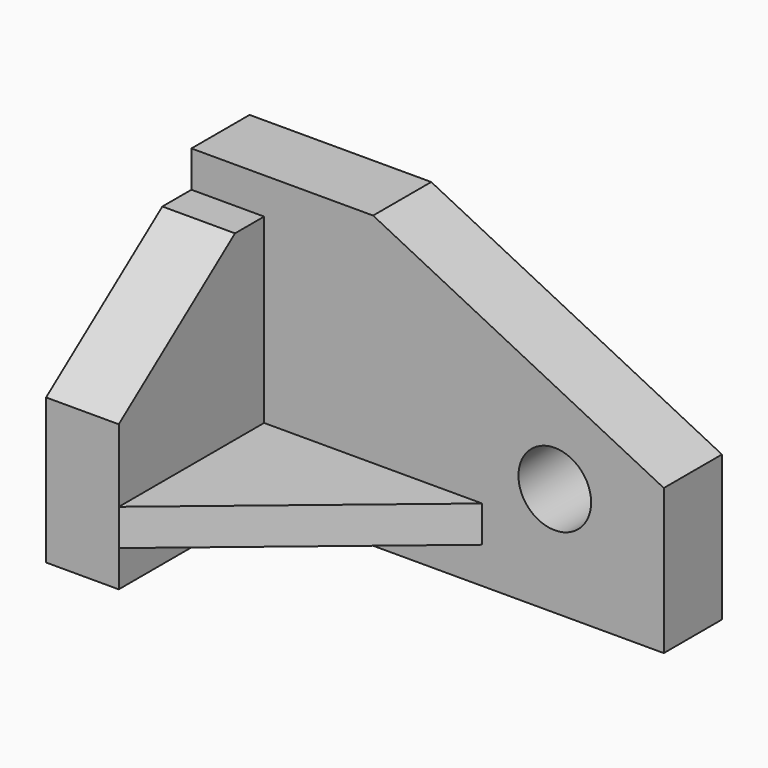
from build123d import *

# Parameters (mm, degrees)
F0_W      = 65
F0_H      = 35
F1_DEPTH  = 40
F2_W      = 10
F2_H      = 5
F3_DEPTH  = 5
F5_DEPTH  = 65
F6_DEPTH  = 65
F7_W      = 25
F7_H      = 5
F8_DEPTH  = 55
F10_DEPTH = 25
F12_DEPTH = 25
F13_R     = 5
F14_DEPTH = 25


with BuildPart() as f1:
    # F0 (on Top) → F1 (new body)
    with BuildSketch(Plane.XY):
        with Locations((-25.0700588524, -0.9162277728)):
            Rectangle(F0_W, F0_H)
    extrude(amount=F1_DEPTH)

    # F2 (on face) → F3 (cut)
    with BuildSketch(Plane.XY.offset(40)):
        with Locations((-52.5700588524, 4.0837722272)):
            Rectangle(F2_W, F2_H)
    extrude(amount=-F3_DEPTH, mode=Mode.SUBTRACT)

    # F4 (on face) → F5 (cut)
    with BuildSketch(Plane(origin=(-57.5700588524, 0, 0), x_dir=(0, -1, 0), z_dir=(-1, 0, 0))):
        Polygon((-1.5837722272, 40), (-1.5837722272, 35), (18.4162277728, 20), (18.4162277728, 40), align=None)
    extrude(amount=-F5_DEPTH, mode=Mode.SUBTRACT)

    # F6 (cut): a face of the model
    f6_faces = [f1.faces().sort_by_distance(p)[0] for p in [
        (-47.5700588524, 4.0837722272, 37.5),
    ]]
    extrude(f6_faces, amount=-F6_DEPTH, mode=Mode.SUBTRACT)

    # F7 (on face) → F8 (cut)
    with BuildSketch(Plane.YZ.offset(7.4299411476)):
        Polygon((6.5837722272, 10), (6.5837722272, 35), (1.5837722272, 35), (-18.4162277728, 20), (-18.4162277728, 10), align=None)
        with Locations((-5.9162277728, 2.5)):
            Rectangle(F7_W, F7_H)
    extrude(amount=-F8_DEPTH, mode=Mode.SUBTRACT)

    # F9 (on face) → F10 (cut)
    with BuildSketch(Plane(origin=(0, 16.5837722272, 0), x_dir=(-1, 0, 0), z_dir=(0, 1, 0))):
        Polygon((-7.4299411476, 20), (32.5700588524, 40), (-7.4299411476, 40), align=None)
    extrude(amount=-F10_DEPTH, mode=Mode.SUBTRACT)

    # F11 (on face) → F12 (cut)
    with BuildSketch(Plane.XY.offset(10)):
        Polygon((-17.5700588524, 6.5837722272), (-47.5700588524, -18.4162277728), (7.4299411476, -18.4162277728), (7.4299411476, 6.5837722272), align=None)
    extrude(amount=-F12_DEPTH, mode=Mode.SUBTRACT)

    # F13 (on face) → F14 (cut)
    with BuildSketch(Plane.XZ.offset(-6.5837722272)):
        with Locations((-7.5700588524, 15)):
            Circle(F13_R)
    extrude(amount=-F14_DEPTH, mode=Mode.SUBTRACT)


solid = f1.part
